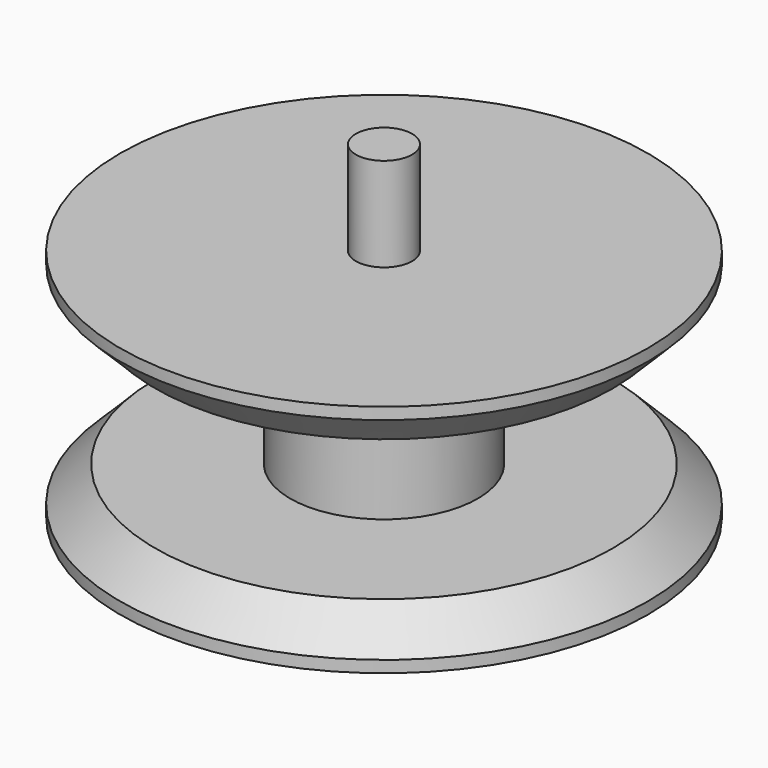
from build123d import *

# Parameters (mm, degrees)
F0_R     = 28.575
F1_DEPTH = 25.4
F2_R     = 3.048
F3_DEPTH = 10.16
F4_R     = 3.048
F5_DEPTH = 12.7
F6_DEPTH = 22.86
F7_W     = 24.8050618141
F7_H     = 15.24
F9_SIZE  = 3.81


with BuildPart() as f1:
    # F0 (on Top) → F1 (new body)
    with BuildSketch(Plane.XY):
        Circle(F0_R)
    extrude(amount=F1_DEPTH)

    # F2 (on face) → F3 (join)
    with BuildSketch(Plane(origin=(0, 0, 0), x_dir=(1, 0, 0), z_dir=(0, 0, -1))):
        Circle(F2_R)
    extrude(amount=F3_DEPTH)

    # F4 (on face) → F5 (cut)
    with BuildSketch(Plane.XY.offset(25.4)):
        Circle(F4_R)
    extrude(amount=-F5_DEPTH, mode=Mode.SUBTRACT)


with BuildPart() as f6:
    # F6 (new): a face of the model
    f6_faces = [f1.part.faces().sort_by_distance(p)[0] for p in [
        (0, 0, 12.7),
    ]]
    extrude(f6_faces, amount=F6_DEPTH)


with BuildPart() as f1_1:
    add(f1.part)

    # F7 (on Right) → F8 (revolve, cut)
    with BuildSketch(Plane.YZ):
        with Locations((-22.5625309071, 12.7)):
            Rectangle(F7_W, F7_H)
    revolve(axis=Axis((0, 0, 35.56), (0, 0, 1)), mode=Mode.SUBTRACT)

    # F9
    f9_edges = [f1_1.edges().sort_by_distance(p)[0] for p in [
        (-28.575, 0, 20.32),
        (-28.575, 0, 5.08),
    ]]
    chamfer(f9_edges, length=F9_SIZE)


solid = Compound([f6.part, f1_1.part])
